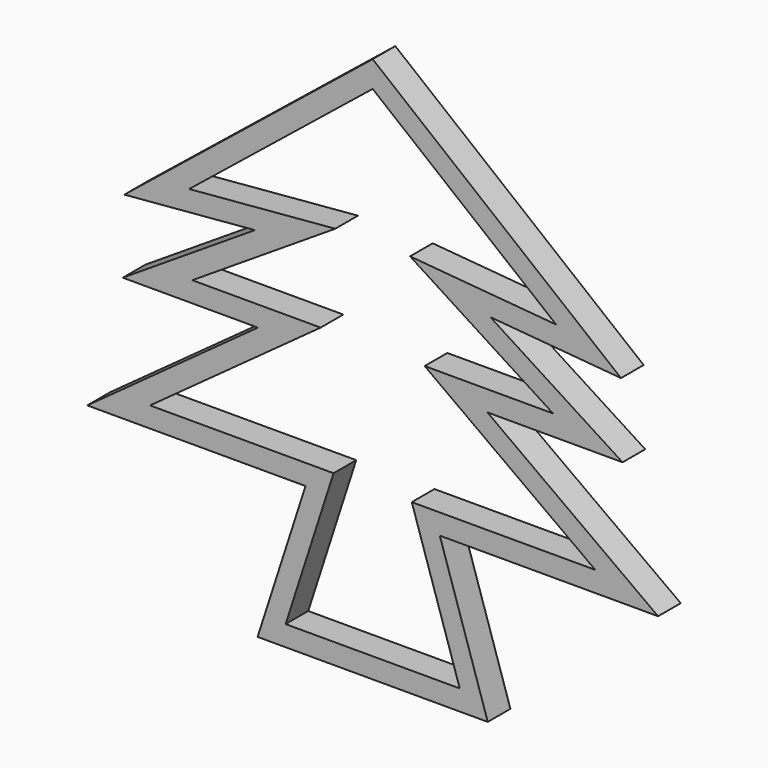
from build123d import *

# Parameters (mm, degrees)
F1_DEPTH = 5


with BuildPart() as f1:
    # F0 (on Front) → F1 (new body)
    with BuildSketch(Plane.XZ):
        Polygon((0, 44.708036), (-43.837983, 9.395791), (-20.78855, 11.376403), (-44.114628, -3.600001), (-20.260162, -3.600001), (-50.384665, -25.486324), (-11.851753, -25.486324), (-20.316074, -51.685411), (0, -51.685411), (20.316074, -51.685411), (11.851753, -25.486324), (50.384665, -25.486324), (20.260162, -3.600001), (44.114628, -3.600001), (20.78855, 11.376403), (43.837983, 9.395791), align=None)
        Polygon((15.369776, -48.08541), (0, -48.08541), (-15.369776, -48.08541), (-6.905455, -21.886323), (-39.304832, -21.886323), (-9.180329, 0), (-31.844262, 0), (-6.598362, 16.209017), (-32.392614, 13.992547), (0, 40.085351), (32.392614, 13.992547), (6.598362, 16.209017), (31.844262, 0), (9.180329, 0), (39.304832, -21.886323), (6.905455, -21.886323), align=None, mode=Mode.SUBTRACT)
    extrude(amount=F1_DEPTH)


solid = f1.part
